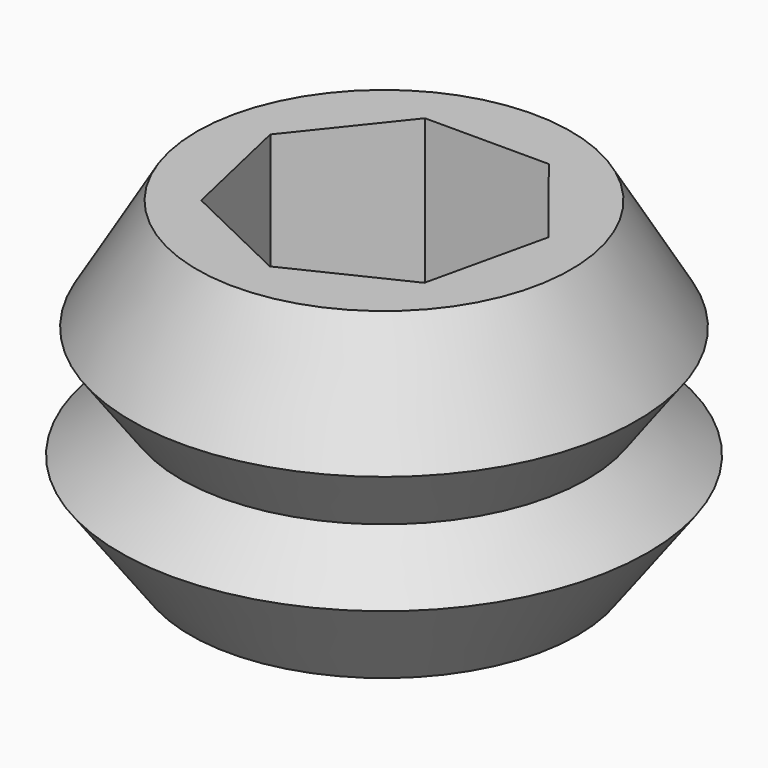
from build123d import *

# Parameters (mm, degrees)
F3_DEPTH = 20


with BuildPart() as f1:
    # F0 (on Front) → F1 (revolve)
    with BuildSketch(Plane.XZ):
        Polygon((-8.977577, 0), (0, 16.091861), (0, 40.822521), (-23.88373, 40.822521), (-32.302976, 26.567327), (-25.935675, 17.91742), (-33.708245, 12.195937), (-24.730667, 0), align=None)
    revolve(axis=Axis((0, 0, 28.457191), (0, 0, -1)))

    # F2 (on face) → F3 (cut)
    with BuildSketch(Plane.XY.offset(40.822521)):
        Polygon((7.907405, 16.419895), (-7.907405, 16.419895), (-17.767777, 4.055379), (-14.248651, -11.36292), (0, -18.224709), (14.248651, -11.36292), (17.767777, 4.055379), align=None)
        Polygon((7.907405, 16.419895), (-7.907405, 16.419895), (-17.767777, 4.055379), (-14.248651, -11.36292), (0, -18.224709), (14.248651, -11.36292), (17.767777, 4.055379), align=None)
    extrude(amount=-F3_DEPTH, mode=Mode.SUBTRACT)


solid = f1.part
